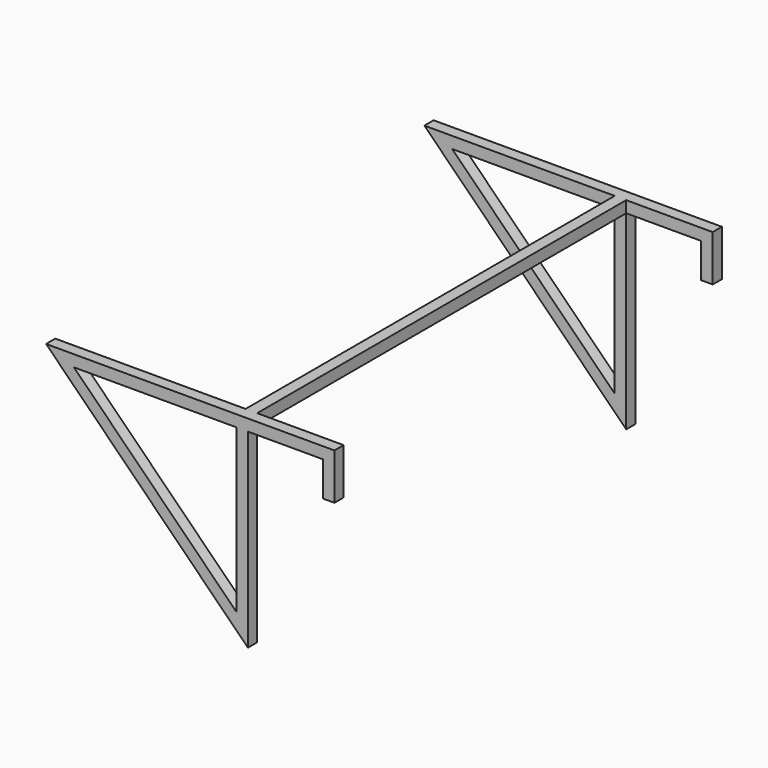
from build123d import *

# Parameters (mm, degrees)
F1_DEPTH  = 50.8
F2_W      = 50.8
F2_H      = 50.8
F3_DEPTH  = 1016
F5_W      = 50.8
F5_H      = 50.8
F6_DEPTH  = 381
F9_DEPTH  = 1066.801
F11_W     = 50.8
F11_H     = 50.8
F12_DEPTH = 152.4


with BuildPart() as f1:
    # F0 (on Front) → F1 (new body)
    with BuildSketch(Plane.XZ):
        Polygon((685.8, 50.8), (-203.2, 50.8), (685.8, -838.2), align=None)
    extrude(amount=F1_DEPTH)

    # F2 (on face) → F3 (join)
    with BuildSketch(Plane(origin=(0, 0, 0), x_dir=(-1, 0, 0), z_dir=(0, 1, 0))):
        with Locations((-660.4, 25.4)):
            Rectangle(F2_W, F2_H)
    extrude(amount=F3_DEPTH)

    # F5 (on face) → F6 (join)
    with BuildSketch(Plane.YZ.offset(685.8)):
        with Locations((-25.4, 25.4)):
            Rectangle(F5_W, F5_H)
    extrude(amount=F6_DEPTH)

    # F8 (on face) → F9 (cut, through all)
    with BuildSketch(Plane.XZ.offset(50.8)):
        Polygon((635, -715.5579510314), (635, 0), (-80.5579510314, 0), align=None)
    extrude(amount=-F9_DEPTH, mode=Mode.SUBTRACT)

    # F11 (on face) → F12 (join)
    with BuildSketch(Plane(origin=(0, 0, 0), x_dir=(1, 0, 0), z_dir=(0, 0, -1))):
        with Locations((1041.4, 25.4)):
            Rectangle(F11_W, F11_H)
    extrude(amount=F12_DEPTH)

    # F13: F1 across plane


with BuildPart() as f1_1:
    add(f1.part)
    add(f1.part.mirror(Plane(origin=(660.4, 1016, 25.4), x_dir=(-1, 0, 0), z_dir=(0, 1, 0))))


solid = f1_1.part
